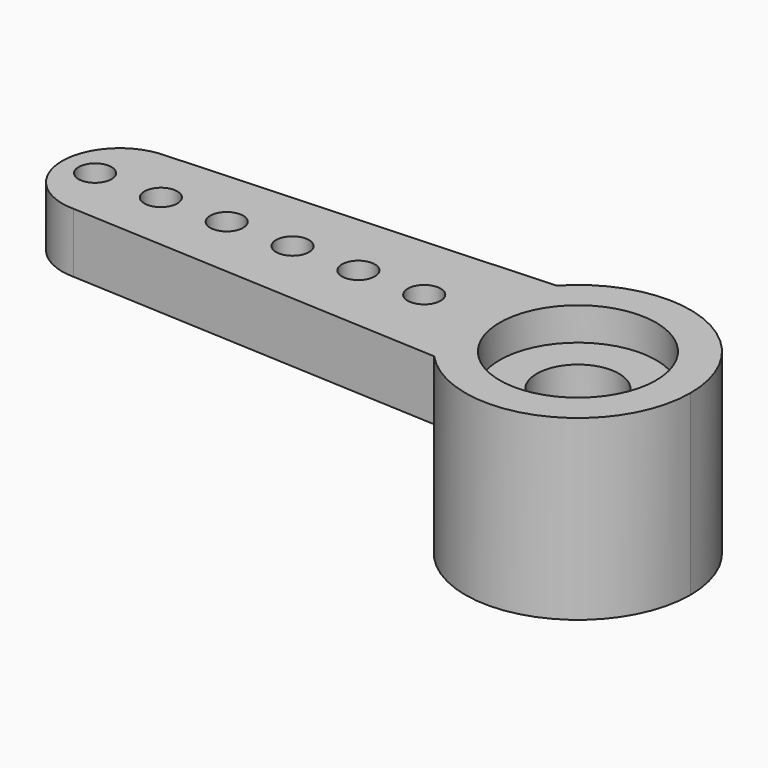
from build123d import *

# Parameters (mm, degrees)
F1_DEPTH = 0.91
F3_DEPTH = 5.4
F4_R     = 2.375
F5_DEPTH = 1
F6_R     = 2.375
F7_DEPTH = 3
F9_D     = 2.5
F11_D    = 1


with BuildPart() as f1:
    # F0 (on Top) → F1 (new body, symmetric)
    with BuildSketch(Plane.XY):
        with BuildLine():
            Line((-13.92, -1.75), (-13.92, 1.75))
            ThreePointArc((-13.92, 1.75), (-15.67, 0), (-13.92, -1.75))
        make_face()
        with BuildLine():
            ThreePointArc((-13.92, 1.75), (-12.682563, 1.237437), (-12.17, 0))
            ThreePointArc((-12.17, 0), (-12.682563, -1.237437), (-13.92, -1.75))
            Line((-13.92, -1.75), (0, -2.45))
            Line((0, -2.45), (0, 2.45))
            Line((0, 2.45), (-13.92, 1.75))
        make_face()
        with BuildLine():
            ThreePointArc((-13.92, -1.75), (-12.682563, -1.237437), (-12.17, 0))
            ThreePointArc((-12.17, 0), (-12.682563, 1.237437), (-13.92, 1.75))
            Line((-13.92, 1.75), (-13.92, -1.75))
        make_face()
    extrude(amount=F1_DEPTH, both=True)

    # F2 (on face) → F3 (join)
    with BuildSketch(Plane.XY.offset(0.91)):
        with BuildLine():
            ThreePointArc((-2.509238, -2.323817), (1.24796, -3.184179), (3.42, 0))
            ThreePointArc((3.42, 0), (1.24796, 3.184179), (-2.509238, 2.323817))
            Line((-2.509238, 2.323817), (0, 2.45))
            Line((0, 2.45), (0, -2.45))
            Line((0, -2.45), (-2.509238, -2.323817))
        make_face()
        with BuildLine():
            Line((0, 2.45), (-2.509238, 2.323817))
            ThreePointArc((-2.509238, 2.323817), (-3.42, 0), (-2.509238, -2.323817))
            Line((-2.509238, -2.323817), (0, -2.45))
            Line((0, -2.45), (0, 2.45))
        make_face()
    extrude(amount=-F3_DEPTH)

    # F4 (on face) → F5 (cut)
    with BuildSketch(Plane.XY.offset(0.91)):
        Circle(F4_R)
    extrude(amount=-F5_DEPTH, mode=Mode.SUBTRACT)

    # F6 (on face) → F7 (cut)
    with BuildSketch(Plane(origin=(0, 0, -4.49), x_dir=(1, 0, 0), z_dir=(0, 0, -1))):
        Circle(F6_R)
    extrude(amount=-F7_DEPTH, mode=Mode.SUBTRACT)

    # F9 (through all)
    with Locations(Plane.XY.offset(-0.09)):
        with Locations((0, 0)):
            Hole(F9_D / 2)

    # F11 (through all)
    with Locations(Plane.XY.offset(0.91)):
        with Locations((-14.67, 0), (-12.67, 0), (-10.67, 0), (-8.67, 0), (-6.67, 0), (-4.67, 0)):
            Hole(F11_D / 2)


solid = f1.part
